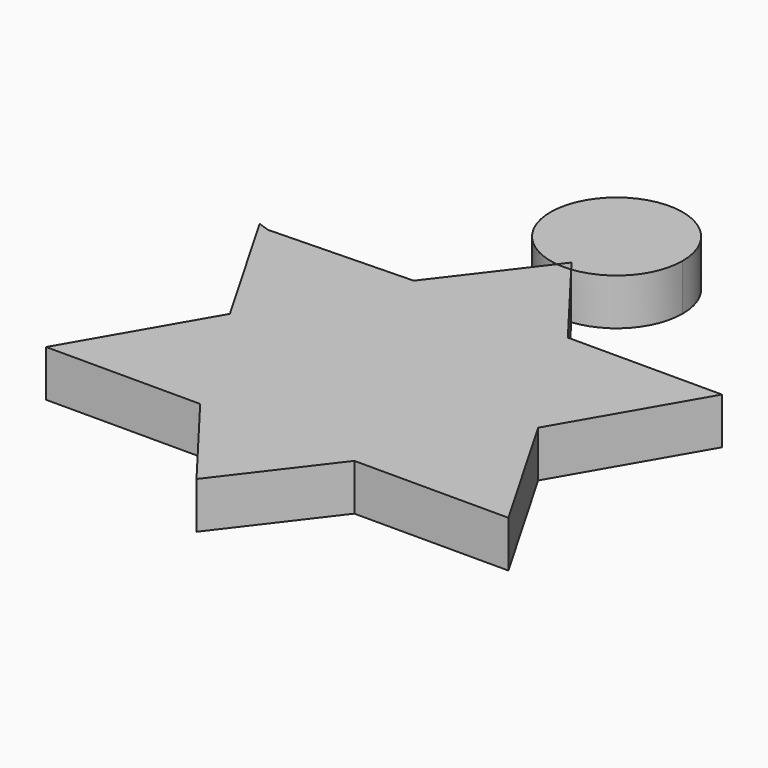
from build123d import *

# Parameters (mm, degrees)
F1_DEPTH = 5.588


with BuildPart() as f1:
    # F0 (on Top) → F1 (new body)
    with BuildSketch(Plane.XY):
        Polygon((9.263644, 16.045102), (-9.263644, 16.045102), (-18.527288, 0), (-9.263644, -16.045102), (9.263644, -16.045102), (18.527288, 0), align=None)
        with BuildLine():
            Line((-0.856473, 27.058847), (-9.263644, 16.045102))
            Line((-9.263644, 16.045102), (9.263644, 16.045102))
            Line((9.263644, 16.045102), (0.856473, 27.058847))
            ThreePointArc((0.856473, 27.058847), (0, 27.012543), (-0.856473, 27.058847))
        make_face()
        Polygon((-18.527288, 0), (-9.263644, 16.045102), (-26.407242, 15.568449), (-27.790932, 16.045102), align=None)
        Polygon((-9.263644, -16.045102), (-18.527288, 0), (-27.790932, -16.045102), align=None)
        Polygon((9.263644, -16.045102), (-9.263644, -16.045102), (0, -28.180862), align=None)
        Polygon((27.790932, -16.045102), (18.527288, 0), (9.263644, -16.045102), align=None)
        Polygon((27.790932, 16.045102), (9.263644, 16.045102), (18.527288, 0), align=None)
        with BuildLine():
            ThreePointArc((7.944106, 34.956649), (-5.305889, 40.86904), (-0.856473, 27.058847))
            Line((-0.856473, 27.058847), (0, 28.180862))
            Line((0, 28.180862), (0.856473, 27.058847))
            ThreePointArc((0.856473, 27.058847), (5.912391, 29.65076), (7.944106, 34.956649))
        make_face()
    extrude(amount=F1_DEPTH)


solid = f1.part
